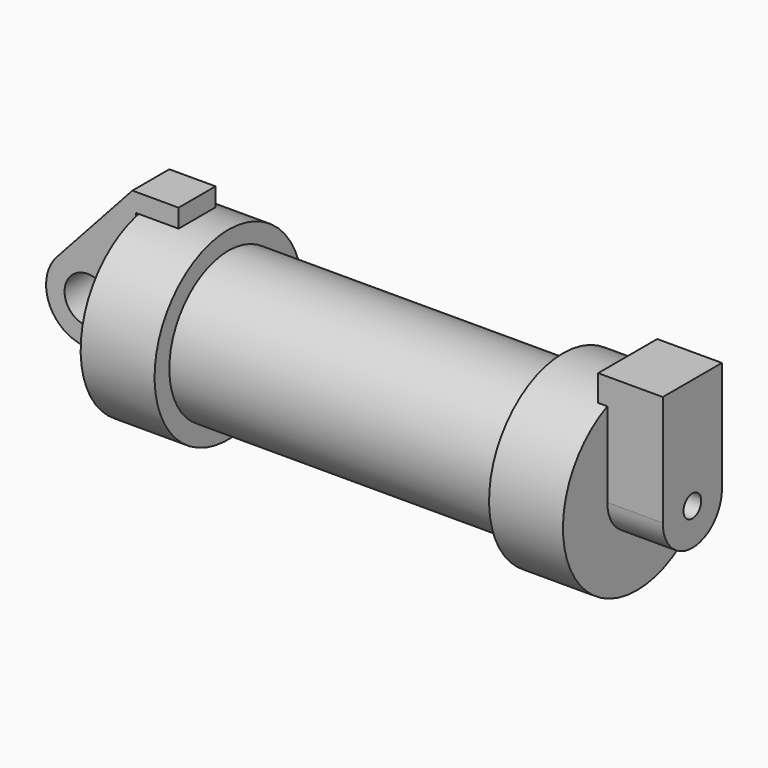
from build123d import *

# Parameters (mm, degrees)
F0_R          = 3.175
F1_DEPTH      = 3.175
F0_W          = 5.842
F0_H          = 12.7
F3_R          = 1.524
F4_DEPTH      = 7.62
F4_DEPTH_BACK = 1.27


with BuildPart() as f1:
    # F0 (on Front) → F1 (new body, symmetric)
    with BuildSketch(Plane.XZ):
        with BuildLine():
            Line((-0.9398, 0), (0, 0))
            Line((0, 0), (0, 12.7))
            Line((0, 12.7), (5.842, 12.7))
            Line((5.842, 12.7), (5.842, 15.24))
            Line((5.842, 15.24), (-0.508, 15.24))
            Line((-0.508, 15.24), (-10.8806298187, 3.8475430269))
            ThreePointArc((-10.8806298187, 3.8475430269), (-4.5919612295, 5.3297205562), (-0.9398, 0))
        make_face()
        with BuildLine():
            Line((5.842, 0), (0, 0))
            Line((0, 0), (-0.9398, 0))
            ThreePointArc((-0.9398, 0), (-3.1957909266, -4.5493385486), (-8.1826630726, -5.5069827884))
            Line((-8.1826630726, -5.5069827884), (5.842, -9.398))
            Line((5.842, -9.398), (5.842, 0))
        make_face()
        with BuildLine():
            ThreePointArc((-8.1826630726, -5.5069827884), (-3.1957909266, -4.5493385486), (-0.9398, 0))
            ThreePointArc((-0.9398, 0), (-4.5919612295, 5.3297205562), (-10.8806298187, 3.8475430269))
            ThreePointArc((-10.8806298187, 3.8475430269), (-12.1459778134, -1.5837270034), (-8.1826630726, -5.5069827884))
        make_face()
        with Locations((-6.6548, 0)):
            Circle(F0_R, mode=Mode.SUBTRACT)
    extrude(amount=F1_DEPTH, both=True)


with BuildPart() as f2:
    # F0 (on Front) → F2 (revolve)
    with BuildSketch(Plane.XZ):
        with Locations((2.921, 6.35)):
            Rectangle(F0_W, F0_H)
        Polygon((5.842, 12.7), (5.842, 0), (66.294, 0), (66.294, 12.7), (56.134, 12.7), (56.134, 10.16), (10.16, 10.16), (10.16, 12.7), align=None)
    revolve(axis=Axis((33.147, 0, 0), (-1, 0, 0)))

    # F3 (on face) → F4 (join, two sides)
    with BuildSketch(Plane.YZ.offset(66.294)) as f4_sk:
        with BuildLine():
            ThreePointArc((-5.08, 0), (0, -5.08), (5.08, 0))
            ThreePointArc((5.08, 0), (0, 5.08), (-5.08, 0))
        make_face()
        Circle(F3_R, mode=Mode.SUBTRACT)
        with BuildLine():
            ThreePointArc((-5.08, 0), (0, 5.08), (5.08, 0))
            Line((5.08, 0), (5.08, 11.6397422652))
            ThreePointArc((5.08, 11.6397422652), (0, 12.7), (-5.08, 11.6397422652))
            Line((-5.08, 11.6397422652), (-5.08, 0))
        make_face()
        with BuildLine():
            ThreePointArc((-5.08, 11.6397422652), (0, 12.7), (5.08, 11.6397422652))
            Line((5.08, 11.6397422652), (5.08, 15.24))
            Line((5.08, 15.24), (-5.08, 15.24))
            Line((-5.08, 15.24), (-5.08, 11.6397422652))
        make_face()
    extrude(amount=F4_DEPTH)
    extrude(f4_sk.sketch, amount=-F4_DEPTH_BACK)


solid = Compound([f1.part, f2.part])
